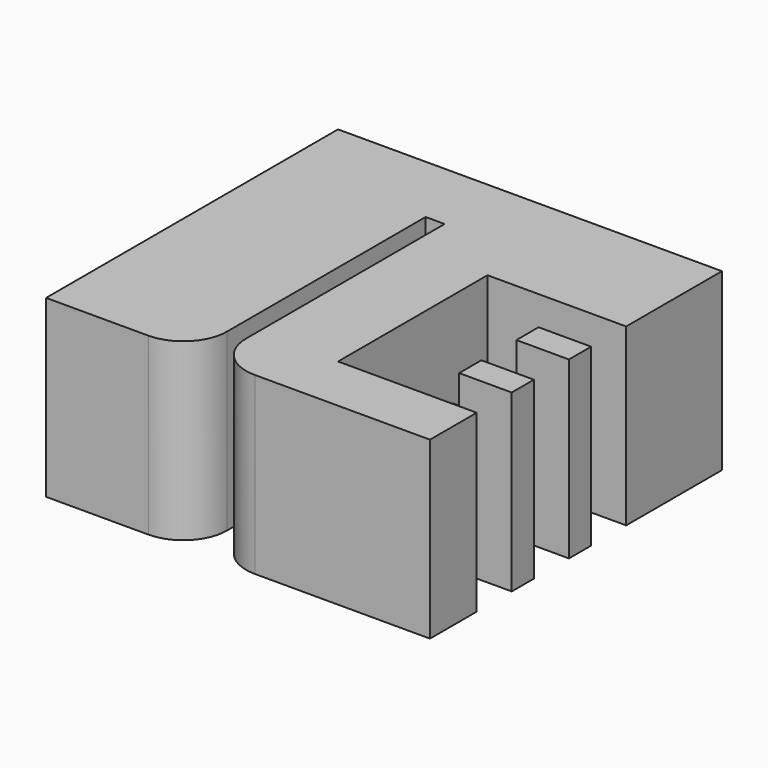
from build123d import *

# Parameters (mm, degrees)
F1_DEPTH = 12
F2_W     = 5.9
F2_H     = 12.8
F3_DEPTH = 6.5
F4_W     = 9.5
F4_H     = 3
F5_DEPTH = 12.001
F6_R     = 3
F8_D     = 3.7973
F8_DEPTH = 13.175
F8_TIP   = 1.1408240143


with BuildPart() as f1:
    # F0 (on Top) → F1 (new body)
    with BuildSketch(Plane.XY):
        Polygon((0, 25), (-11.3, 25), (-11.3, 0), (-1.3, 0), (-1.3, 20), (0, 20), align=None)
        Polygon((15, 25), (0, 25), (0, 20), (0, 0), (15, 0), align=None)
    extrude(amount=F1_DEPTH)

    # F2 (on face) → F3 (cut)
    with BuildSketch(Plane.XY.offset(12)):
        with Locations((8.45, 10.4)):
            Rectangle(F2_W, F2_H)
    extrude(amount=-F3_DEPTH, mode=Mode.SUBTRACT)

    # F4 (on face) → F5 (cut, through all)
    with BuildSketch(Plane.XY.offset(12)):
        with Locations((10.25, 5.5)):
            Rectangle(F4_W, F4_H)
        with Locations((10.25, 10.4)):
            Rectangle(F4_W, F4_H)
        with Locations((10.25, 15.3)):
            Rectangle(F4_W, F4_H)
    extrude(amount=-F5_DEPTH, mode=Mode.SUBTRACT)

    # F6
    f6_edges = [f1.edges().sort_by_distance(p)[0] for p in [
        (-1.3, 0, 6),
        (0, 0, 6),
    ]]
    fillet(f6_edges, radius=F6_R)

    # F8
    with Locations(Plane(origin=(-11.3, 0, 0), x_dir=(0, -1, 0), z_dir=(-1, 0, 0))):
        with Locations((-7.8025250696, 6)):
            Hole(F8_D / 2, depth=F8_DEPTH)
            with Locations((0, 0, -(F8_DEPTH + F8_TIP / 2))):  # 118° drill point
                Cone(0, F8_D / 2, F8_TIP, mode=Mode.SUBTRACT)


solid = f1.part
